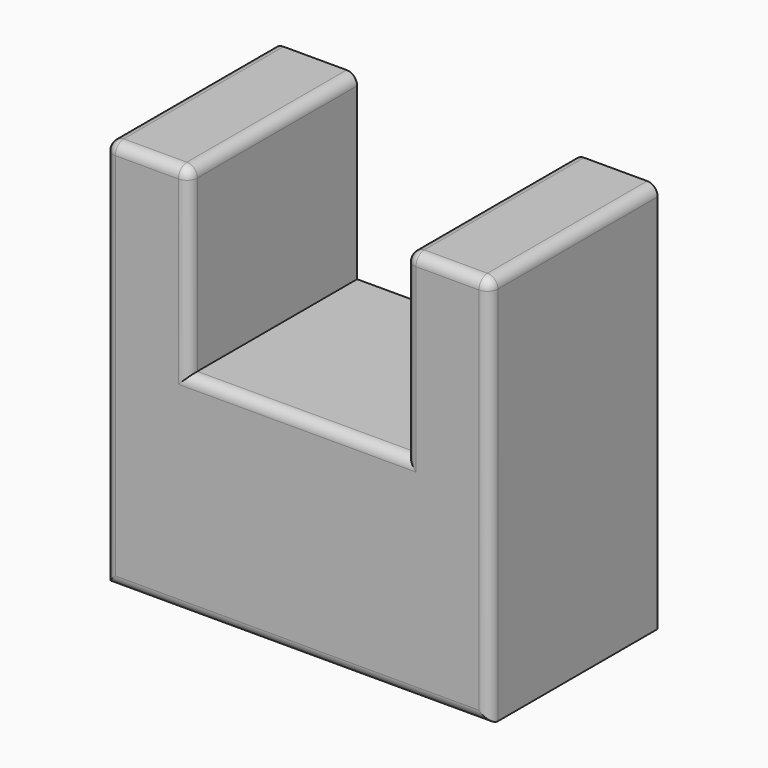
from build123d import *

# Parameters (mm, degrees)
F1_DEPTH = 10
F2_R     = 0.5


with BuildPart() as f1:
    # F0 (on Front) → F1 (new body)
    with BuildSketch(Plane.XZ):
        Polygon((0, 10), (0, 0), (9.15, 0), (9.15, 18.6), (5.15, 18.6), (5.15, 10), align=None)
        Polygon((-9.15, 18.6), (-9.15, 0), (0, 0), (0, 10), (-5.15, 10), (-5.15, 18.6), align=None)
    extrude(amount=F1_DEPTH)

    # F2
    f2_edges = [f1.edges().sort_by_distance(p)[0] for p in [
        (-5.15, -10, 14.3),
        (0, -10, 10),
        (5.15, -10, 14.3),
        (7.15, -10, 18.6),
        (9.15, -10, 9.3),
        (0, -10, 0),
        (-9.15, -10, 9.3),
        (-7.15, -10, 18.6),
        (5.15, -5, 18.6),
        (9.15, -5, 18.6),
        (-5.15, -5, 18.6),
        (-9.15, -5, 18.6),
    ]]
    fillet(f2_edges, radius=F2_R)


solid = f1.part
